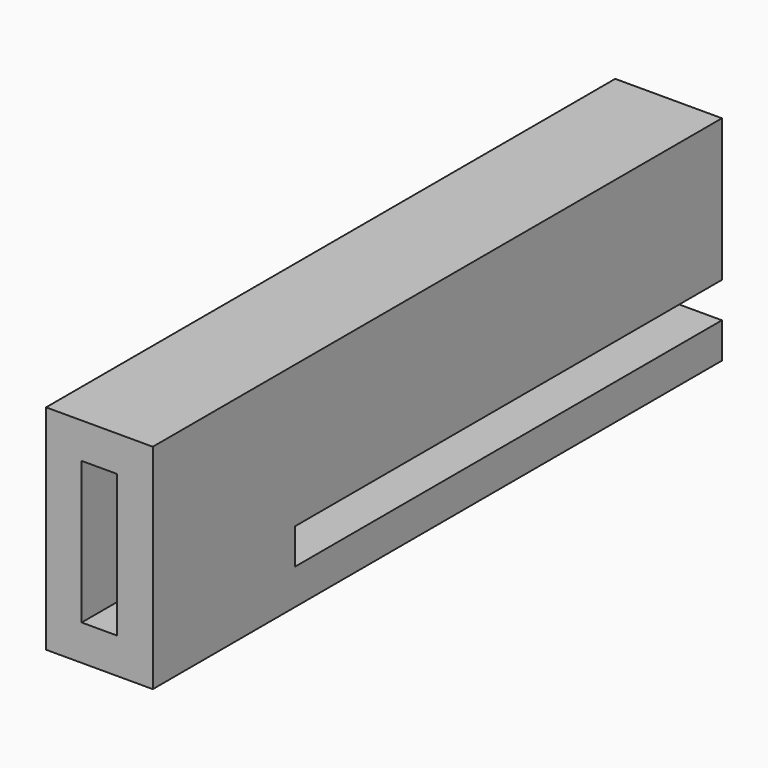
from build123d import *

# Parameters (mm, degrees)
F0_W     = 12
F0_H     = 80
F1_DEPTH = 24
F2_W     = 4
F2_H     = 16
F3_DEPTH = 9900
F4_W     = 60
F4_H     = 4
F5_DEPTH = 4


with BuildPart() as f1:
    # F0 (on Top) → F1 (new body)
    with BuildSketch(Plane.XY):
        with Locations((-6, 40)):
            Rectangle(F0_W, F0_H)
    extrude(amount=F1_DEPTH)

    # F2 (on face) → F3 (cut)
    with BuildSketch(Plane.XZ):
        with Locations((-6, 12)):
            Rectangle(F2_W, F2_H)
    extrude(amount=-F3_DEPTH, mode=Mode.SUBTRACT)

    # F4 (on face) → F5 (cut)
    with BuildSketch(Plane.YZ):
        with Locations((50, 6)):
            Rectangle(F4_W, F4_H)
    extrude(amount=-F5_DEPTH, mode=Mode.SUBTRACT)


solid = f1.part
